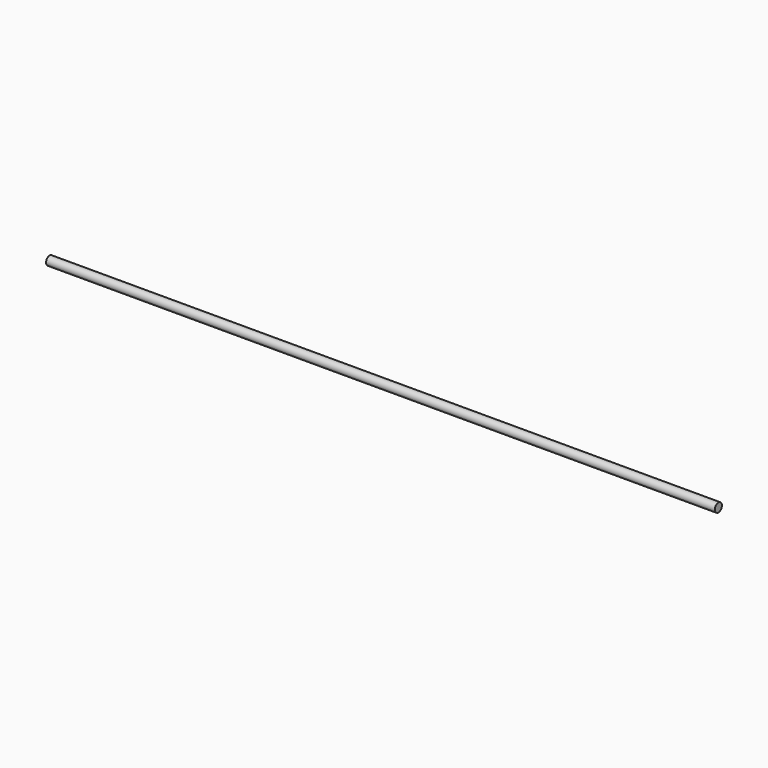
from build123d import *

# Parameters (mm, degrees)
F0_R          = 6
F1_DEPTH      = 450
F1_DEPTH_BACK = 460


with BuildPart() as f1:
    # F0 (on Right) → F1 (new body, two sides)
    with BuildSketch(Plane.YZ) as f1_sk:
        with Locations((0, -0.323392)):
            Circle(F0_R)
    extrude(amount=F1_DEPTH)
    extrude(f1_sk.sketch, amount=-F1_DEPTH_BACK)


solid = f1.part
